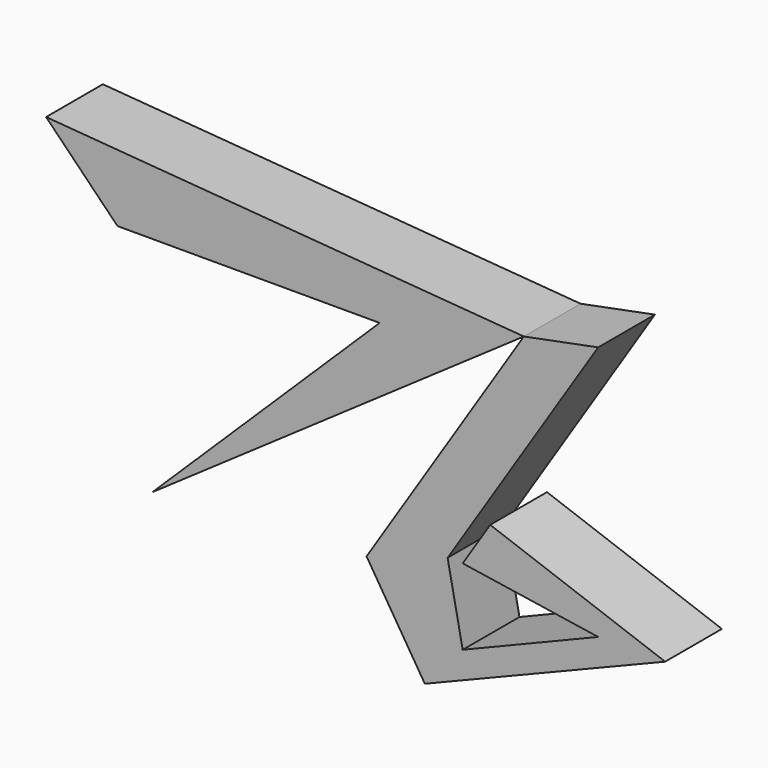
from build123d import *

# Parameters (mm, degrees)
F1_DEPTH = 6.35


with BuildPart() as f1:
    # F0 (on Front) → F1 (new body)
    with BuildSketch(Plane.XZ):
        Polygon((-10.856368, 39.173357), (-17.504653, 37.86977), (-31.583376, 15.969533), (-26.369035, 7.626586), (-4.859874, 16.360609), (-20.515446, 22.048584), (-22.979714, 18.215278), (-10.856368, 16.360609), (-22.979714, 11.406984), (-24.329418, 18.215278), align=None)
        Polygon((-30.41015, 34.741167), (-50.746087, 14.796306), (-17.504653, 37.86977), (-60.263562, 41.255311), (-53.87469, 34.741167), align=None)
    extrude(amount=F1_DEPTH)


solid = f1.part
